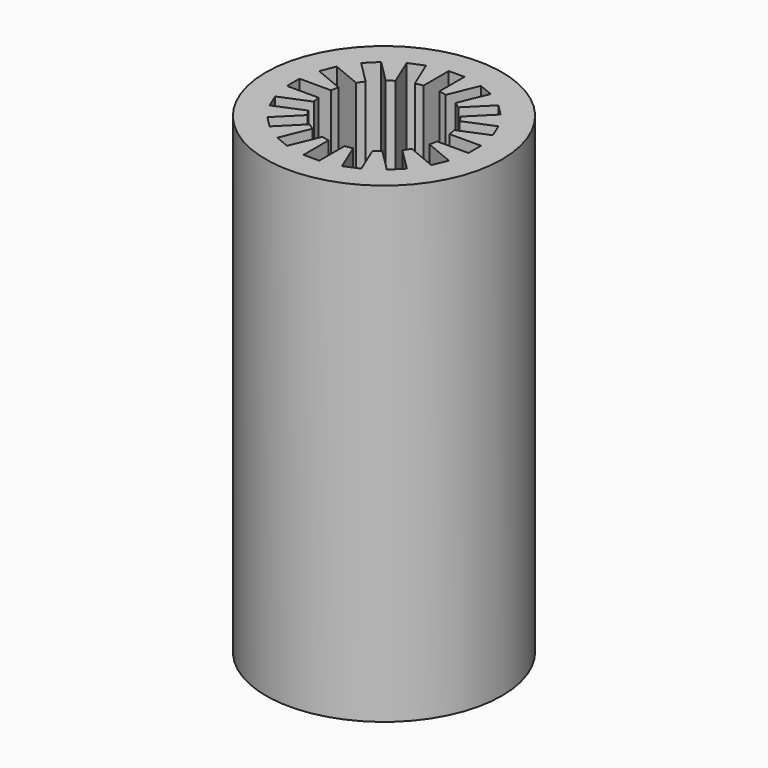
from build123d import *

# Parameters (mm, degrees)
SKETCH_R           = 7.5
SKETCH_R_2         = 3.8
PAD_DEPTH          = 30
SKETCH001_W        = 1
SKETCH001_H        = 2
POCKET_DEPTH       = 30
POLARPATTERN_COUNT = 16


with BuildPart() as part:
    # Sketch → Pad (new body)
    with BuildSketch(Plane.XY):
        Circle(SKETCH_R)
        Circle(SKETCH_R_2, mode=Mode.SUBTRACT)
    extrude(amount=PAD_DEPTH)

    # Sketch001 (on Face4 of Pad) → Pocket (cut)
    with BuildSketch(Plane.XY.offset(30)):
        with Locations((0, 4.766962)):
            Rectangle(SKETCH001_W, SKETCH001_H)
    pocket = extrude(amount=-POCKET_DEPTH, mode=Mode.SUBTRACT)

    # PolarPattern: Pocket ×16 about axis
    polarpattern_axis = Axis((0, 0, 30), (0, 0, 1))
    for i in range(1, POLARPATTERN_COUNT):
        add(pocket.rotate(polarpattern_axis, i * 360 / POLARPATTERN_COUNT), mode=Mode.SUBTRACT)


solid = part.part
